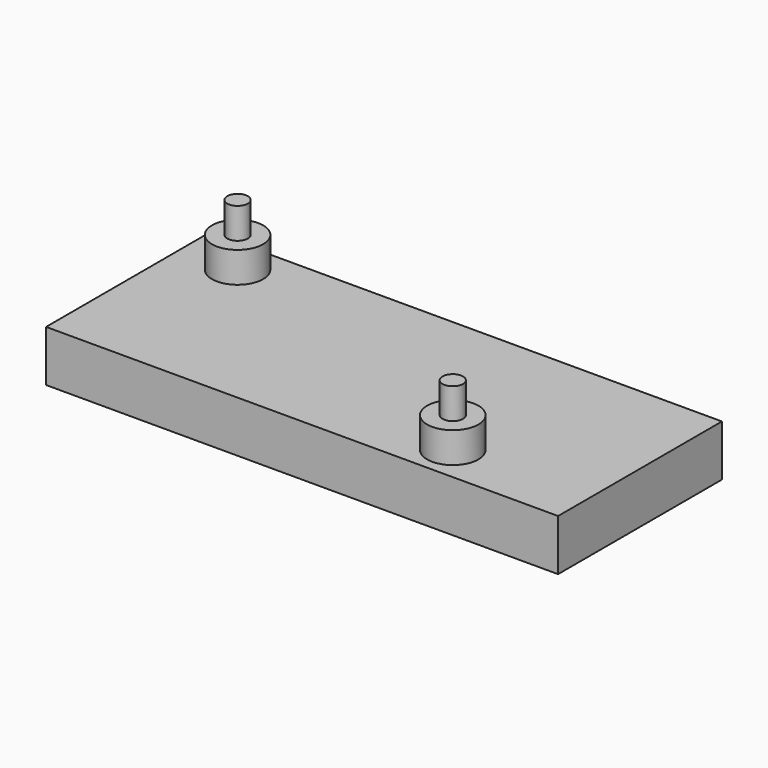
from build123d import *

# Parameters (mm, degrees)
SKETCH_W     = 50
SKETCH_H     = 20
PAD_DEPTH    = 5
SKETCH001_R  = 2.5
PAD001_DEPTH = 3
SKETCH002_R  = 1
PAD002_DEPTH = 3


with BuildPart() as part:
    # Sketch → Pad (new body)
    with BuildSketch(Plane.XY):
        with Locations((25, 10)):
            Rectangle(SKETCH_W, SKETCH_H)
    extrude(amount=PAD_DEPTH)

    # Sketch001 (on Face6 of Pad) → Pad001 (join)
    with BuildSketch(Plane.XY.offset(5)):
        with Locations((5.5, 16.5)):
            Circle(SKETCH001_R)
        with Locations((36.916556, 3.5)):
            Circle(SKETCH001_R)
    extrude(amount=PAD001_DEPTH)

    # Sketch002 (on Face10 of Pad001) → Pad002 (join)
    with BuildSketch(Plane.XY.offset(8)):
        with Locations((5.5, 16.5)):
            Circle(SKETCH002_R)
        with Locations((36.916556, 3.5)):
            Circle(SKETCH002_R)
    extrude(amount=PAD002_DEPTH)


solid = part.part
